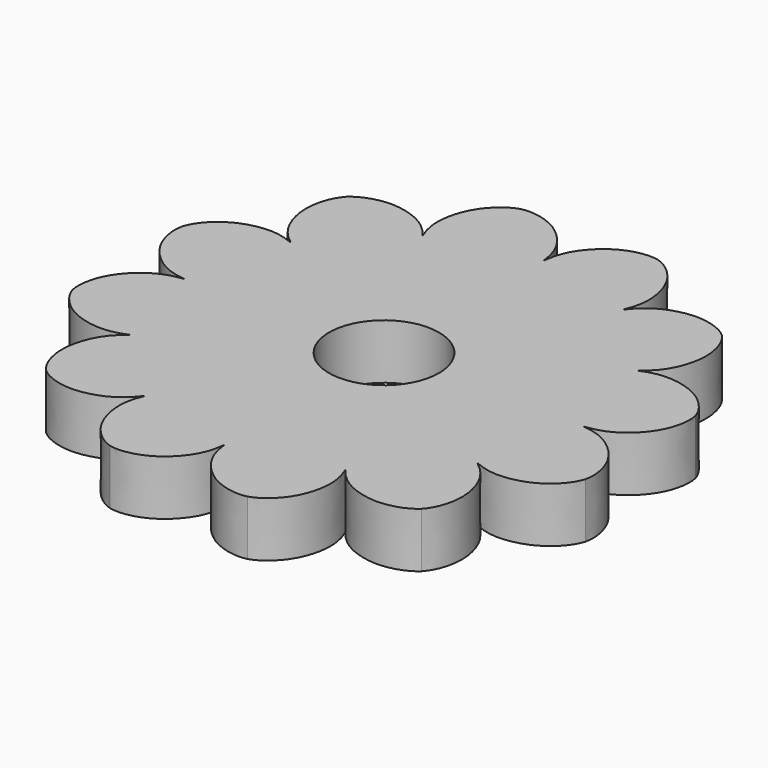
from build123d import *

# Parameters (mm, degrees)
F1_DEPTH = 10


with BuildPart() as f1:
    # F0 (on Top) → F1 (new body)
    with BuildSketch(Plane.XY):
        with BuildLine():
            ThreePointArc((-10, 0), (0, 10), (10, 0))
            Line((10, 0), (36.3385102814, 0))
            add(Edge.make_bspline(
                [(36.3385102814, 0), (38.1493832545, 0.2133160809), (41.1543741544, 1.1173907107), (44.8944975107, 4.6532514581), (46.5891533047, 8.2707380904), (46.9314032298, 11.0166099485), (46.6155803767, 12.4906071166)],
                knots=[0, 0, 0, 0, 0.2631644028, 0.5247795892, 0.7588354663, 1, 1, 1, 1], degree=3))
            add(Edge.make_bspline(
                [(31.4700730394, 18.1692551407), (33.1449930775, 18.8899544822), (36.1994288499, 19.6094983358), (41.2064010634, 18.4174147824), (44.4827593479, 16.131907358), (46.1520924066, 13.9250375359), (46.6155803767, 12.4906071166)],
                knots=[0, 0, 0, 0, 0.2631644028, 0.5247795892, 0.7588354663, 1, 1, 1, 1], degree=3))
            add(Edge.make_bspline(
                [(31.4700730394, 18.1692551407), (32.9316769966, 19.2594287723), (35.0820381392, 21.5448758186), (36.5531496053, 26.4770827283), (36.2120212575, 30.4572459467), (35.135482458, 33.0063656939), (34.1249732601, 34.1249732601)],
                knots=[0, 0, 0, 0, 0.2631644028, 0.5247795892, 0.7588354663, 1, 1, 1, 1], degree=3))
            add(Edge.make_bspline(
                [(18.1692551407, 31.4700730394), (19.2594287723, 32.9316769966), (21.5448758186, 35.0820381392), (26.4770827283, 36.5531496053), (30.4572459467, 36.2120212575), (33.0063656939, 35.135482458), (34.1249732601, 34.1249732601)],
                knots=[0, 0, 0, 0, 0.2631644028, 0.5247795892, 0.7588354663, 1, 1, 1, 1], degree=3))
            add(Edge.make_bspline(
                [(18.1692551407, 31.4700730394), (18.8899544822, 33.1449930775), (19.6094983358, 36.1994288499), (18.4174147824, 41.2064010634), (16.131907358, 44.4827593479), (13.9250375359, 46.1520924066), (12.4906071166, 46.6155803767)],
                knots=[0, 0, 0, 0, 0.2631644028, 0.5247795892, 0.7588354663, 1, 1, 1, 1], degree=3))
            add(Edge.make_bspline(
                [(0, 36.3385102814), (0.2133160809, 38.1493832545), (1.1173907107, 41.1543741544), (4.6532514581, 44.8944975107), (8.2707380904, 46.5891533047), (11.0166099485, 46.9314032298), (12.4906071166, 46.6155803767)],
                knots=[0, 0, 0, 0, 0.2631644028, 0.5247795892, 0.7588354663, 1, 1, 1, 1], degree=3))
            add(Edge.make_bspline(
                [(0, 36.3385102814), (-0.2133160809, 38.1493832545), (-1.1173907107, 41.1543741544), (-4.6532514581, 44.8944975107), (-8.2707380904, 46.5891533047), (-11.0166099485, 46.9314032298), (-12.4906071166, 46.6155803767)],
                knots=[0, 0, 0, 0, 0.2631644028, 0.5247795892, 0.7588354663, 1, 1, 1, 1], degree=3))
            add(Edge.make_bspline(
                [(-18.1692551407, 31.4700730394), (-18.8899544822, 33.1449930775), (-19.6094983358, 36.1994288499), (-18.4174147824, 41.2064010634), (-16.131907358, 44.4827593479), (-13.9250375359, 46.1520924066), (-12.4906071166, 46.6155803767)],
                knots=[0, 0, 0, 0, 0.2631644028, 0.5247795892, 0.7588354663, 1, 1, 1, 1], degree=3))
            add(Edge.make_bspline(
                [(-18.1692551407, 31.4700730394), (-19.2594287723, 32.9316769966), (-21.5448758186, 35.0820381392), (-26.4770827283, 36.5531496053), (-30.4572459467, 36.2120212575), (-33.0063656939, 35.135482458), (-34.1249732601, 34.1249732601)],
                knots=[0, 0, 0, 0, 0.2631644028, 0.5247795892, 0.7588354663, 1, 1, 1, 1], degree=3))
            add(Edge.make_bspline(
                [(-31.4700730394, 18.1692551407), (-32.9316769966, 19.2594287723), (-35.0820381392, 21.5448758186), (-36.5531496053, 26.4770827283), (-36.2120212575, 30.4572459467), (-35.135482458, 33.0063656939), (-34.1249732601, 34.1249732601)],
                knots=[0, 0, 0, 0, 0.2631644028, 0.5247795892, 0.7588354663, 1, 1, 1, 1], degree=3))
            add(Edge.make_bspline(
                [(-31.4700730394, 18.1692551407), (-33.1449930775, 18.8899544822), (-36.1994288499, 19.6094983358), (-41.2064010634, 18.4174147824), (-44.4827593479, 16.131907358), (-46.1520924066, 13.9250375359), (-46.6155803767, 12.4906071166)],
                knots=[0, 0, 0, 0, 0.2631644028, 0.5247795892, 0.7588354663, 1, 1, 1, 1], degree=3))
            add(Edge.make_bspline(
                [(-36.3385102814, 0), (-38.1493832545, 0.2133160809), (-41.1543741544, 1.1173907107), (-44.8944975107, 4.6532514581), (-46.5891533047, 8.2707380904), (-46.9314032298, 11.0166099485), (-46.6155803767, 12.4906071166)],
                knots=[0, 0, 0, 0, 0.2631644028, 0.5247795892, 0.7588354663, 1, 1, 1, 1], degree=3))
            Line((-36.3385102814, 0), (-10, 0))
        make_face()
        with BuildLine():
            Line((36.3385102814, 0), (10, 0))
            ThreePointArc((10, 0), (0, -10), (-10, 0))
            Line((-10, 0), (-36.3385102814, 0))
            add(Edge.make_bspline(
                [(-36.3385102814, 0), (-38.1493832545, -0.2133160809), (-41.1543741544, -1.1173907107), (-44.8944975107, -4.6532514581), (-46.5891533047, -8.2707380904), (-46.9314032298, -11.0166099485), (-46.6155803767, -12.4906071166)],
                knots=[0, 0, 0, 0, 0.2631644028, 0.5247795892, 0.7588354663, 1, 1, 1, 1], degree=3))
            add(Edge.make_bspline(
                [(-31.4700730394, -18.1692551407), (-33.1449930775, -18.8899544822), (-36.1994288499, -19.6094983358), (-41.2064010634, -18.4174147824), (-44.4827593479, -16.131907358), (-46.1520924066, -13.9250375359), (-46.6155803767, -12.4906071166)],
                knots=[0, 0, 0, 0, 0.2631644028, 0.5247795892, 0.7588354663, 1, 1, 1, 1], degree=3))
            add(Edge.make_bspline(
                [(-31.4700730394, -18.1692551407), (-32.9316769966, -19.2594287723), (-35.0820381392, -21.5448758186), (-36.5531496053, -26.4770827283), (-36.2120212575, -30.4572459467), (-35.135482458, -33.0063656939), (-34.1249732601, -34.1249732601)],
                knots=[0, 0, 0, 0, 0.2631644028, 0.5247795892, 0.7588354663, 1, 1, 1, 1], degree=3))
            add(Edge.make_bspline(
                [(-18.1692551407, -31.4700730394), (-19.2594287723, -32.9316769966), (-21.5448758186, -35.0820381392), (-26.4770827283, -36.5531496053), (-30.4572459467, -36.2120212575), (-33.0063656939, -35.135482458), (-34.1249732601, -34.1249732601)],
                knots=[0, 0, 0, 0, 0.2631644028, 0.5247795892, 0.7588354663, 1, 1, 1, 1], degree=3))
            add(Edge.make_bspline(
                [(-18.1692551407, -31.4700730394), (-18.8899544822, -33.1449930775), (-19.6094983358, -36.1994288499), (-18.4174147824, -41.2064010634), (-16.131907358, -44.4827593479), (-13.9250375359, -46.1520924066), (-12.4906071166, -46.6155803767)],
                knots=[0, 0, 0, 0, 0.2631644028, 0.5247795892, 0.7588354663, 1, 1, 1, 1], degree=3))
            add(Edge.make_bspline(
                [(0, -36.3385102814), (-0.2133160809, -38.1493832545), (-1.1173907107, -41.1543741544), (-4.6532514581, -44.8944975107), (-8.2707380904, -46.5891533047), (-11.0166099485, -46.9314032298), (-12.4906071166, -46.6155803767)],
                knots=[0, 0, 0, 0, 0.2631644028, 0.5247795892, 0.7588354663, 1, 1, 1, 1], degree=3))
            add(Edge.make_bspline(
                [(0, -36.3385102814), (0.2133160809, -38.1493832545), (1.1173907107, -41.1543741544), (4.6532514581, -44.8944975107), (8.2707380904, -46.5891533047), (11.0166099485, -46.9314032298), (12.4906071166, -46.6155803767)],
                knots=[0, 0, 0, 0, 0.2631644028, 0.5247795892, 0.7588354663, 1, 1, 1, 1], degree=3))
            add(Edge.make_bspline(
                [(18.1692551407, -31.4700730394), (18.8899544822, -33.1449930775), (19.6094983358, -36.1994288499), (18.4174147824, -41.2064010634), (16.131907358, -44.4827593479), (13.9250375359, -46.1520924066), (12.4906071166, -46.6155803767)],
                knots=[0, 0, 0, 0, 0.2631644028, 0.5247795892, 0.7588354663, 1, 1, 1, 1], degree=3))
            add(Edge.make_bspline(
                [(18.1692551407, -31.4700730394), (19.2594287723, -32.9316769966), (21.5448758186, -35.0820381392), (26.4770827283, -36.5531496053), (30.4572459467, -36.2120212575), (33.0063656939, -35.135482458), (34.1249732601, -34.1249732601)],
                knots=[0, 0, 0, 0, 0.2631644028, 0.5247795892, 0.7588354663, 1, 1, 1, 1], degree=3))
            add(Edge.make_bspline(
                [(31.4700730394, -18.1692551407), (32.9316769966, -19.2594287723), (35.0820381392, -21.5448758186), (36.5531496053, -26.4770827283), (36.2120212575, -30.4572459467), (35.135482458, -33.0063656939), (34.1249732601, -34.1249732601)],
                knots=[0, 0, 0, 0, 0.2631644028, 0.5247795892, 0.7588354663, 1, 1, 1, 1], degree=3))
            add(Edge.make_bspline(
                [(31.4700730394, -18.1692551407), (33.1449930775, -18.8899544822), (36.1994288499, -19.6094983358), (41.2064010634, -18.4174147824), (44.4827593479, -16.131907358), (46.1520924066, -13.9250375359), (46.6155803767, -12.4906071166)],
                knots=[0, 0, 0, 0, 0.2631644028, 0.5247795892, 0.7588354663, 1, 1, 1, 1], degree=3))
            add(Edge.make_bspline(
                [(36.3385102814, 0), (38.1493832545, -0.2133160809), (41.1543741544, -1.1173907107), (44.8944975107, -4.6532514581), (46.5891533047, -8.2707380904), (46.9314032298, -11.0166099485), (46.6155803767, -12.4906071166)],
                knots=[0, 0, 0, 0, 0.2631644028, 0.5247795892, 0.7588354663, 1, 1, 1, 1], degree=3))
        make_face()
    extrude(amount=F1_DEPTH)


solid = f1.part
